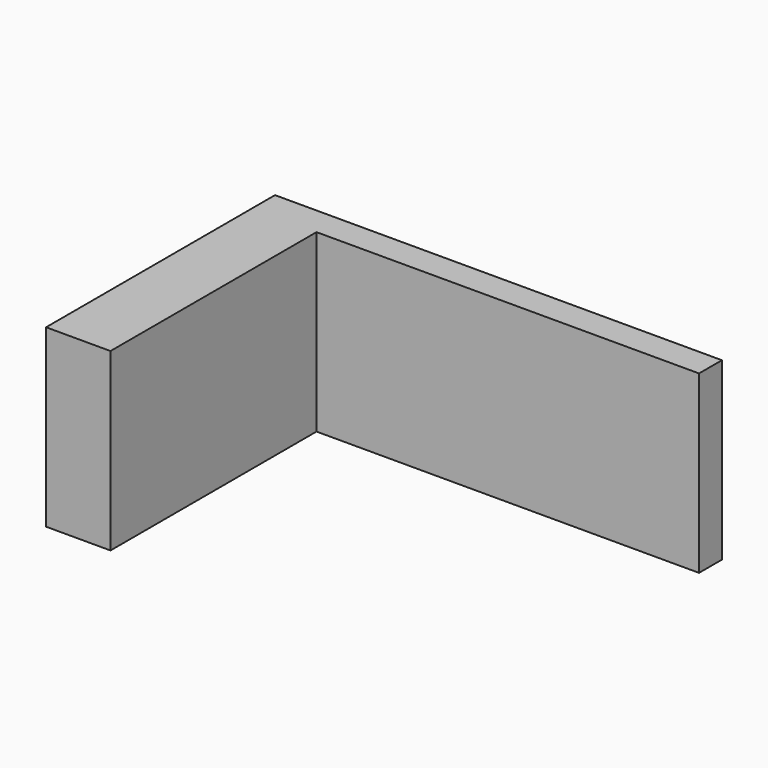
from build123d import *

# Parameters (mm, degrees)
F0_W     = 33.954592
F0_H     = 15.586171
F1_DEPTH = 2.54
F0_W_2   = 5.716747
F2_DEPTH = 25.4


with BuildPart() as f1:
    # F0 (on Front) → F1 (new body)
    with BuildSketch(Plane.XZ):
        with Locations((-16.977296, -24.58241)):
            Rectangle(F0_W, F0_H)
    extrude(amount=F1_DEPTH)

    # F0 (on Front) → F2 (join)
    with BuildSketch(Plane.XZ):
        with Locations((-36.812965, -24.58241)):
            Rectangle(F0_W_2, F0_H)
    extrude(amount=F2_DEPTH)


solid = f1.part
